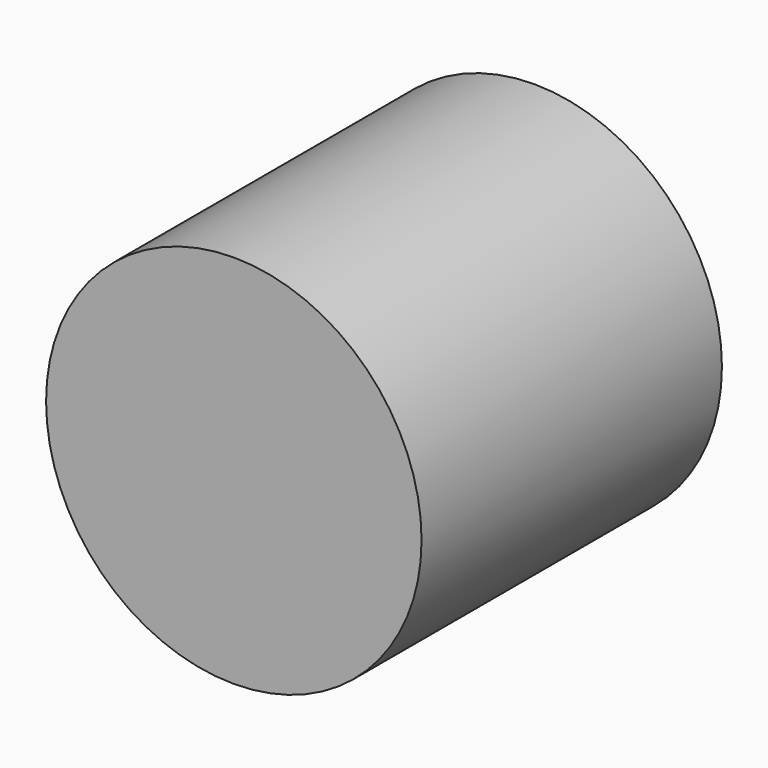
from build123d import *

# Parameters (mm, degrees)
F0_R     = 12.5
F1_DEPTH = 25
F0_R_2   = 10


with BuildPart() as f1:
    # F0 (on Front) → F1 (new body)
    with BuildSketch(Plane.XZ):
        Circle(F0_R)
    extrude(amount=F1_DEPTH)


with BuildPart() as f1b:
    # F0 (on Front) → F1, piece 2 (new body)
    with BuildSketch(Plane.XZ):
        with Locations((0, 40)):
            Circle(F0_R_2)
    extrude(amount=F1_DEPTH)


solid = f1.part
